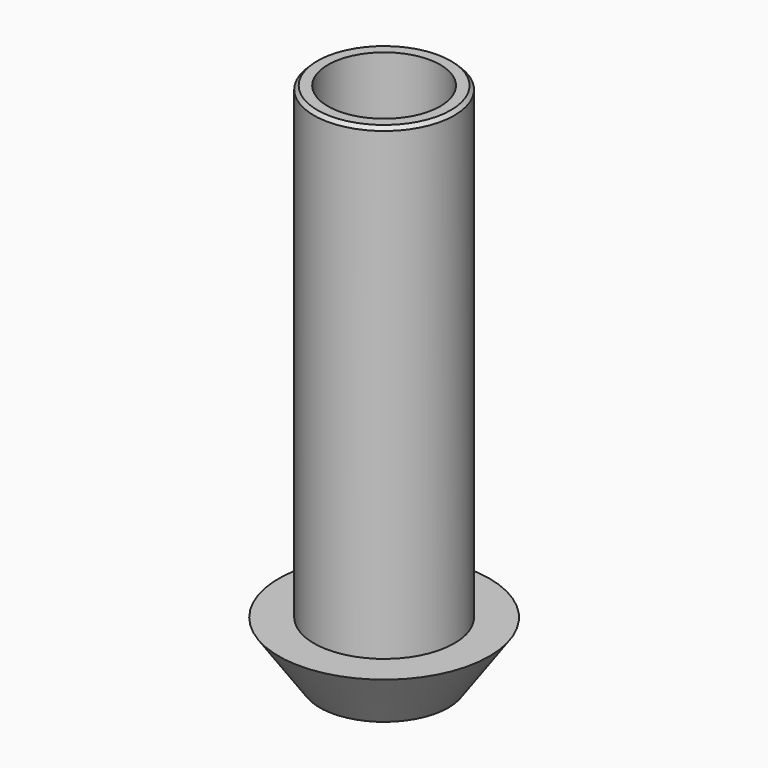
from build123d import *

# Parameters (mm, degrees)
F0_R     = 6
F0_R_2   = 4.8
F1_DEPTH = 40
F2_R     = 9
F3_DEPTH = 5
F3_TAPER = 35
F4_SIZE  = 1
F5_SIZE  = 0.3
F6_R     = 3.8
F7_DEPTH = 100


with BuildPart() as f1:
    # F0 (on Top) → F1 (new body)
    with BuildSketch(Plane.XY):
        Circle(F0_R)
        Circle(F0_R_2, mode=Mode.SUBTRACT)
    extrude(amount=F1_DEPTH)

    # F2 (on Top) → F3 (join)
    with BuildSketch(Plane.XY):
        Circle(F2_R)
    extrude(amount=-F3_DEPTH, taper=F3_TAPER)

    # F4
    f4_edges = [f1.edges().sort_by_distance(p)[0] for p in [
        (-4.8, 0, 0),
    ]]
    chamfer(f4_edges, length=F4_SIZE)

    # F5
    f5_edges = [f1.edges().sort_by_distance(p)[0] for p in [
        (-6, 0, 40),
    ]]
    chamfer(f5_edges, length=F5_SIZE)

    # F6 (on face) → F7 (cut)
    with BuildSketch(Plane(origin=(0, 0, -5), x_dir=(1, 0, 0), z_dir=(0, 0, -1))):
        Circle(F6_R)
    extrude(amount=-F7_DEPTH, mode=Mode.SUBTRACT)


solid = f1.part
